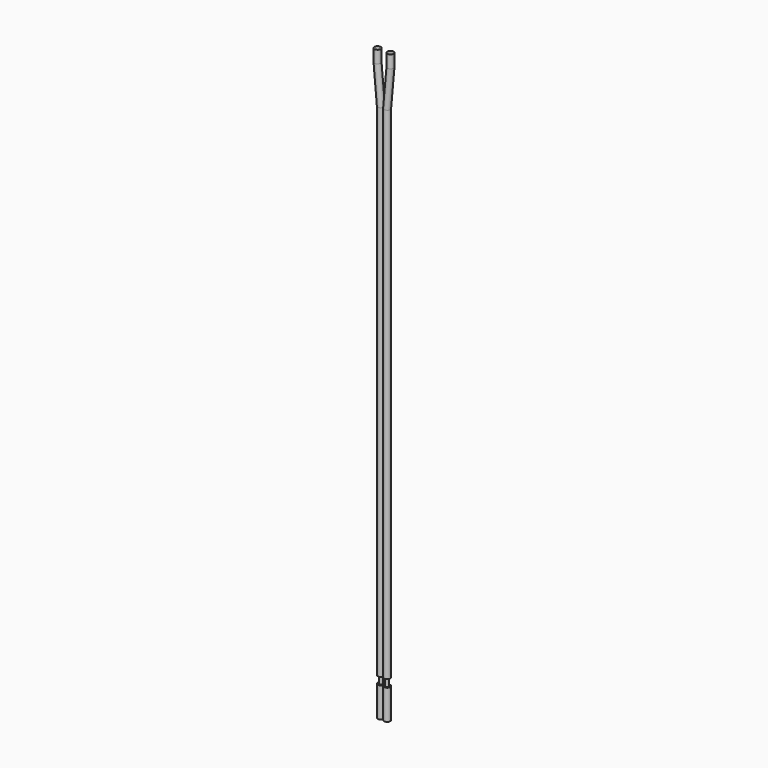
from build123d import *

# Parameters (mm, degrees)
F1_R     = 0.625
F1_R_2   = 1.25
F6_DEPTH = 15
F7_START = -3
F7_DEPTH = 12


with BuildPart() as f2:
    # F2: sweep along a path in F0
    with BuildLine(Plane.XZ) as f2_path:
        Line((1.25, 0), (1.25, 200))
        Line((1.25, 200), (2.58, 215))
        Line((2.58, 215), (2.58, 220))
    # F1 (on Top) → F2 (sweep)
    with BuildSketch(Plane.XY):
        with Locations((1.25, 0)):
            Circle(F1_R)
    sweep(path=f2_path.line, transition=Transition.RIGHT)


with BuildPart() as f3:
    # F3: sweep along a path in F0
    with BuildLine(Plane.XZ) as f3_path:
        Line((-1.25, 0), (-1.25, 200))
        Line((-1.25, 200), (-2.58, 215))
        Line((-2.58, 215), (-2.58, 220))
    # F1 (on Top) → F3 (sweep)
    with BuildSketch(Plane.XY):
        with Locations((-1.25, 0)):
            Circle(F1_R)
    sweep(path=f3_path.line, transition=Transition.RIGHT)


with BuildPart() as f4:
    # F4: sweep along a path in F0
    with BuildLine(Plane.XZ) as f4_path:
        Line((1.25, 0), (1.25, 200))
        Line((1.25, 200), (2.58, 215))
        Line((2.58, 215), (2.58, 220))
    # F1 (on Top) → F4 (sweep)
    with BuildSketch(Plane.XY):
        with BuildLine():
            ThreePointArc((2.5, 0), (1.25, 1.25), (0, 0))
            ThreePointArc((0, 0), (1.25, -1.25), (2.5, 0))
        make_face()
        with Locations((1.25, 0)):
            Circle(F1_R, mode=Mode.SUBTRACT)
    sweep(path=f4_path.line, transition=Transition.RIGHT)


with BuildPart() as f5:
    # F5: sweep along a path in F0
    with BuildLine(Plane.XZ) as f5_path:
        Line((-1.25, 0), (-1.25, 200))
        Line((-1.25, 200), (-2.58, 215))
        Line((-2.58, 215), (-2.58, 220))
    # F1 (on Top) → F5 (sweep)
    with BuildSketch(Plane.XY):
        with Locations((-1.25, 0)):
            Circle(F1_R_2)
        with Locations((-1.25, 0)):
            Circle(F1_R, mode=Mode.SUBTRACT)
    sweep(path=f5_path.line, transition=Transition.RIGHT)


with BuildPart() as f6:
    # F1 (on Top) → F6 (new body)
    with BuildSketch(Plane.XY):
        with Locations((-1.25, 0)):
            Circle(F1_R)
    extrude(amount=-F6_DEPTH)


with BuildPart() as f6b:
    # F1 (on Top) → F6, piece 2 (new body)
    with BuildSketch(Plane.XY):
        with Locations((1.25, 0)):
            Circle(F1_R)
    extrude(amount=-F6_DEPTH)


with BuildPart() as f7:
    # F1 (on Top) → F7 (new body)
    with BuildSketch(Plane.XY.offset(F7_START)):
        with Locations((-1.25, 0)):
            Circle(F1_R_2)
        with Locations((-1.25, 0)):
            Circle(F1_R, mode=Mode.SUBTRACT)
    extrude(amount=-F7_DEPTH)


with BuildPart() as f7b:
    # F1 (on Top) → F7, piece 2 (new body)
    with BuildSketch(Plane.XY.offset(F7_START)):
        with BuildLine():
            ThreePointArc((2.5, 0), (1.25, 1.25), (0, 0))
            ThreePointArc((0, 0), (1.25, -1.25), (2.5, 0))
        make_face()
        with Locations((1.25, 0)):
            Circle(F1_R, mode=Mode.SUBTRACT)
    extrude(amount=-F7_DEPTH)


solid = Compound([f2.part, f3.part, f4.part, f5.part, f6.part, f6b.part, f7.part, f7b.part])
